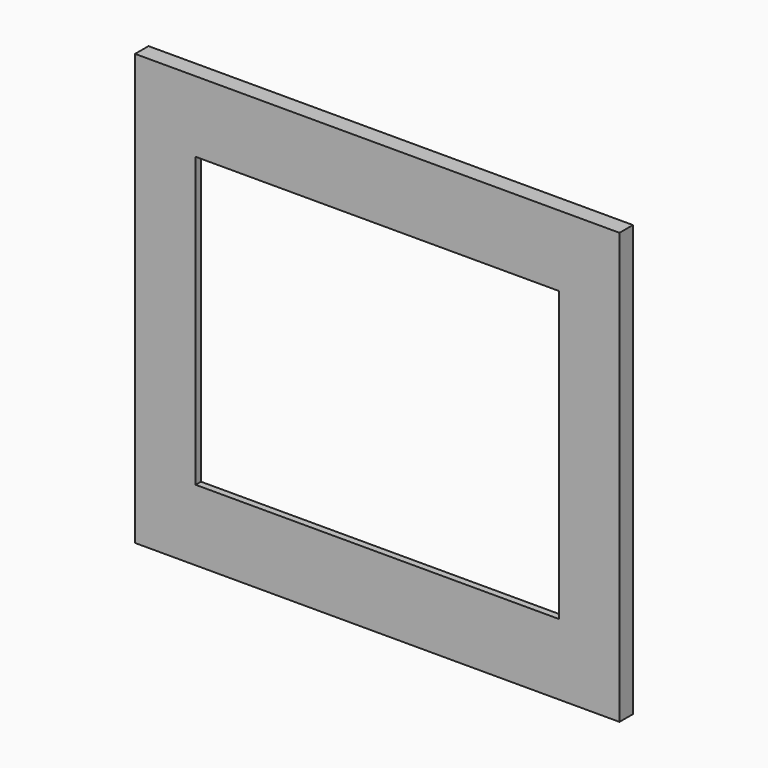
from build123d import *

# Parameters (mm, degrees)
F0_W     = 457.2
F0_H     = 406.4
F0_W_2   = 342.9
F0_H_2   = 272.542
F1_DEPTH = 15.875
F2_W     = 374.65
F2_H     = 304.292
F2_W_2   = 342.9
F2_H_2   = 272.542
F3_DEPTH = 9.525


with BuildPart() as f1:
    # F0 (on Front) → F1 (new body)
    with BuildSketch(Plane.XZ):
        Rectangle(F0_W, F0_H)
        Rectangle(F0_W_2, F0_H_2, mode=Mode.SUBTRACT)
    extrude(amount=F1_DEPTH)

    # F2 (on face) → F3 (cut)
    with BuildSketch(Plane(origin=(0, 0, 0), x_dir=(-1, 0, 0), z_dir=(0, 1, 0))):
        Rectangle(F2_W, F2_H)
        Rectangle(F2_W_2, F2_H_2, mode=Mode.SUBTRACT)
    extrude(amount=-F3_DEPTH, mode=Mode.SUBTRACT)


solid = f1.part
